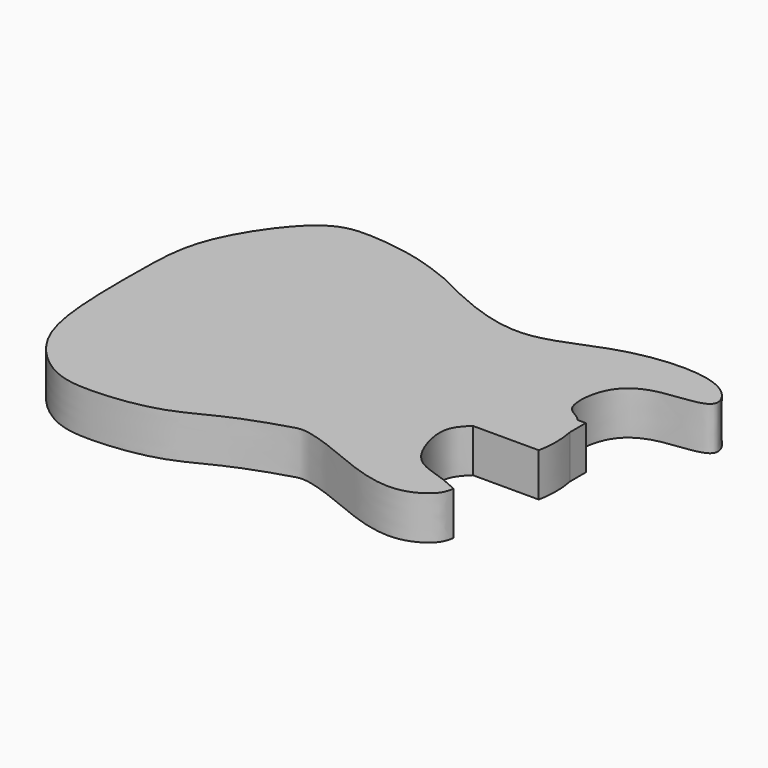
from build123d import *

# Parameters (mm, degrees)
F1_DEPTH = 40


with BuildPart() as f1:
    # F0 (on Top) → F1 (new body)
    with BuildSketch(Plane.XY):
        with BuildLine():
            add(Edge.make_bspline(
                [(186.615609547, 300.100468309), (218.3602978082, 283.5466046742), (282.1887851196, 254.7210073833), (350.3761155775, 299.6095311222), (444.6478380737, 304.634544664), (469.4391202046, 261.555944026), (411.5428071633, 263.317489077), (380.0897915651, 241.5363908286), (377.4790556993, 196.1653516624), (392.662263541, 194.4544736573), (397.5051749352, 188.640549825)],
                knots=[0, 0, 0, 0, 0.1556902187, 0.2948035198, 0.44206906, 0.5220418857, 0.6253130031, 0.7225573914, 0.8160335015, 0.8841533736, 0.8841533736, 0.8841533736, 0.8841533736], degree=3))
            add(Edge.make_bspline(
                [(186.615609547, 300.100468309), (174.3605593456, 304.9407889813), (148.8315006897, 315.0202983381), (100.4068780685, 321.4604781266), (60.4736710851, 317.375440916), (7.6969793984, 241.7972948497), (6.0613195039, 181.0971779632), (5.629814229, 114.8053013773), (12.9577083216, 50.0070999527), (54.4618255381, 9.4326593941), (95.0215280546, 3.9052541792), (155.5049419467, 11.3905903899), (194.5921835708, 35.6001269353), (241.1161271535, 50.9407736975), (254.9687400098, 54.8848607043), (289.0227482061, 43.6472488372), (326.7789960406, 26.1253344313), (366.4951243435, 19.4264253515), (392.1400993816, 36.0193023288), (393.9591974745, 45.5521429532), (394.6938514709, 49.4020394981)],
                knots=[0, 0, 0, 0, 0.0538036854, 0.1118463334, 0.1633469438, 0.2407847791, 0.3072160946, 0.375557676, 0.4430827337, 0.5039345446, 0.5571255681, 0.621570572, 0.6806675399, 0.7379461241, 0.769371372, 0.8179043392, 0.8739103468, 0.9266762242, 0.9703853524, 1, 1, 1, 1], degree=3))
            add(Edge.make_bspline(
                [(394.6938514709, 49.4020394981), (388.7392664616, 52.18645227), (376.1982817516, 58.0507195438), (350.5316636043, 64.3318792326), (336.0039298326, 86.5896263823), (328.9827324288, 118.9640574866), (339.6680360062, 129.7025941437), (344.4659216559, 134.4140378129)],
                knots=[0, 0, 0, 0, 0.1833512112, 0.386157009, 0.5926244452, 0.817360128, 0.9960618357, 0.9960618357, 0.9960618357, 0.9960618357], degree=3))
            Line((344.4659216559, 134.4140378129), (328.5412192345, 134.4140378129))
            Line((328.5412192345, 134.4140378129), (328.5412192345, 188.640549825))
            Line((328.5412192345, 188.640549825), (397.5051749352, 188.640549825))
        make_face()
        with BuildLine():
            Line((405.107015069, 188.640549825), (397.5051749352, 188.640549825))
            add(Edge.make_bspline(
                [(397.5051749352, 188.640549825), (400.8755150599, 184.5944504482), (403.4915310507, 178.0818369422), (405.107015069, 170.4473785438)],
                knots=[0.8841533736, 0.8841533736, 0.8841533736, 0.8841533736, 0.9315602163, 0.9315602163, 0.9315602163, 0.9315602163], degree=3))
            Line((405.107015069, 170.4473785438), (405.107015069, 188.640549825))
        make_face()
        with BuildLine():
            add(Edge.make_bspline(
                [(397.5051749352, 188.640549825), (400.8755150599, 184.5944504482), (403.4915310507, 178.0818369422), (405.107015069, 170.4473785438)],
                knots=[0.8841533736, 0.8841533736, 0.8841533736, 0.8841533736, 0.9315602163, 0.9315602163, 0.9315602163, 0.9315602163], degree=3))
            Line((397.5051749352, 188.640549825), (328.5412192345, 188.640549825))
            Line((328.5412192345, 188.640549825), (328.5412192345, 134.4140378129))
            Line((328.5412192345, 134.4140378129), (344.4659216559, 134.4140378129))
            Line((344.4659216559, 134.4140378129), (405.107015069, 134.4140378129))
            Line((405.107015069, 134.4140378129), (405.107015069, 170.4473785438))
        make_face()
        with BuildLine():
            add(Edge.make_bspline(
                [(405.107015069, 170.4473785438), (407.439239084, 159.4257484833), (407.686174517, 146.0659918968), (405.107015069, 134.4140378129)],
                knots=[0.9315602163, 0.9315602163, 0.9315602163, 0.9315602163, 1, 1, 1, 1], degree=3))
            Line((405.107015069, 170.4473785438), (405.107015069, 134.4140378129))
        make_face()
    extrude(amount=F1_DEPTH)


solid = f1.part
